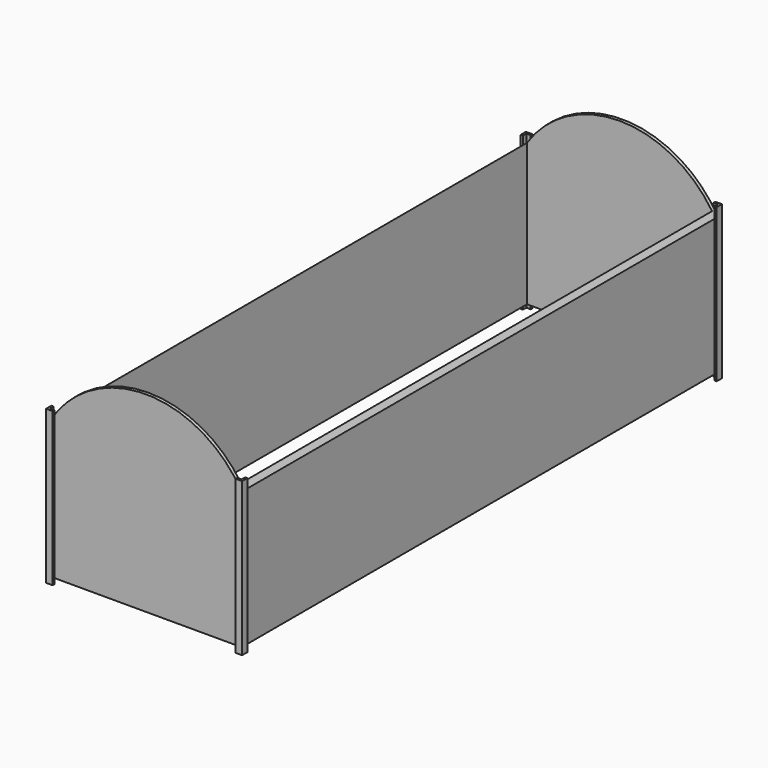
from build123d import *

# Parameters (mm, degrees)
F0_W          = 17.5
F0_H          = 12.5
F1_DEPTH      = 54.375
F2_T          = -0.3
F4_DEPTH      = 13.5
F4_DEPTH_BACK = 0.5


with BuildPart() as f1:
    # F0 (on Front) → F1 (new body)
    with BuildSketch(Plane.XZ):
        with Locations((0, 6.25)):
            Rectangle(F0_W, F0_H)
        with BuildLine():
            ThreePointArc((8.75, 12.5), (0, 17.5), (-8.75, 12.5))
            Line((-8.75, 12.5), (8.75, 12.5))
        make_face()
    extrude(amount=F1_DEPTH)

    # F2
    f2_openings = [f1.faces().sort_by_distance(p)[0] for p in [
        (0, -27.1875, 0),
        (0, -27.1875, 17.5),
    ]]
    offset(amount=F2_T, openings=f2_openings)


with BuildPart() as f4:
    # F3 (on Top) → F4 (new body, two sides)
    with BuildSketch(Plane.XY) as f4_sk:
        Polygon((-8.35, 0), (-8.35, 0.2), (-8.95, 0.2), (-8.95, -0.4), (-8.75, -0.4), (-8.75, 0), align=None)
        Polygon((8.75, -0.4), (8.95, -0.4), (8.95, 0.2), (8.35, 0.2), (8.35, 0), (8.75, 0), align=None)
        Polygon((-8.75, -53.975), (-8.95, -53.975), (-8.95, -54.575), (-8.35, -54.575), (-8.35, -54.375), (-8.75, -54.375), align=None)
        Polygon((8.35, -54.375), (8.35, -54.575), (8.95, -54.575), (8.95, -53.975), (8.75, -53.975), (8.75, -54.375), align=None)
    extrude(amount=F4_DEPTH)
    extrude(f4_sk.sketch, amount=-F4_DEPTH_BACK)


solid = Compound([f1.part, f4.part])
